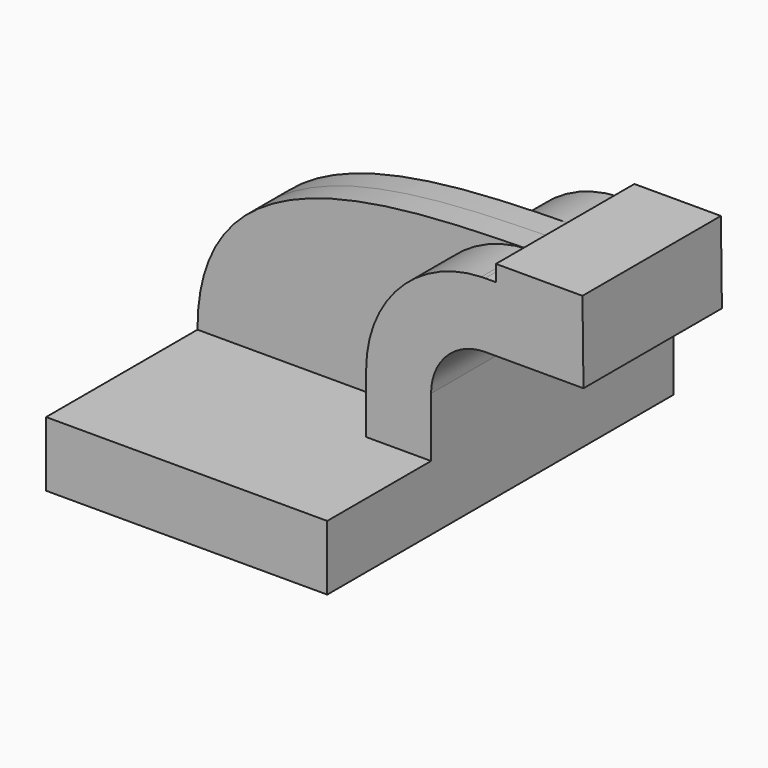
from build123d import *

# Parameters (mm, degrees)
F1_DEPTH = 63.5
F2_DEPTH = 25.4
F3_DEPTH = 7.9375


with BuildPart() as f1:
    # F0 (on Front) → F1 (new body, symmetric)
    with BuildSketch(Plane.XZ):
        Polygon((-41.275, 9.525), (-41.275, -9.525), (41.275, -9.525), (41.275, 9.525), (22.225, 9.525), align=None)
    extrude(amount=F1_DEPTH, both=True)

    # F0 (on Front) → F2 (join, symmetric)
    with BuildSketch(Plane.XZ):
        with BuildLine():
            Line((22.225, 9.525), (41.275, 9.525))
            Line((41.275, 9.525), (41.275, 27.0002))
            ThreePointArc((41.275, 27.0002), (45.9246798487, 38.2255201513), (57.15, 42.8752))
            Line((57.15, 42.8752), (60.325, 42.8752))
            Line((60.325, 42.8752), (60.325, 61.9252))
            Line((60.325, 61.9252), (57.15, 61.9252))
            add(Edge.make_bspline(
                [(56.0439940471, 61.9076830922), (56.4136969839, 61.9136063659), (56.7823811234, 61.9194348071), (57.15, 61.9252)],
                knots=[110.5340718473, 110.5340718473, 110.5340718473, 110.5340718473, 111.5045361635, 111.5045361635, 111.5045361635, 111.5045361635], degree=3))
            ThreePointArc((56.0439940471, 61.9076830922), (32.0663112471, 51.3017263625), (22.225, 27.0002))
            Line((22.225, 27.0002), (22.225, 9.525))
        make_face()
        Polygon((60.325, 66.675), (60.325, 61.9252), (60.325, 42.8752), (86.0297148728, 42.8752), (85.725, 66.675), align=None)
    extrude(amount=F2_DEPTH, both=True)

    # F0 (on Front) → F3 (join, symmetric)
    with BuildSketch(Plane.XZ):
        with BuildLine():
            add(Edge.make_bspline(
                [(-41.275, 9.525), (-41.3895917306, 59.328141832), (13.9355205015, 61.2330332862), (56.0439940471, 61.9076830922)],
                knots=[0, 0, 0, 0, 110.5340718473, 110.5340718473, 110.5340718473, 110.5340718473], degree=3))
            Line((-41.275, 9.525), (22.225, 9.525))
            Line((22.225, 9.525), (22.225, 27.0002))
            ThreePointArc((22.225, 27.0002), (32.0663112471, 51.3017263625), (56.0439940471, 61.9076830922))
        make_face()
    extrude(amount=F3_DEPTH, both=True)


solid = f1.part
